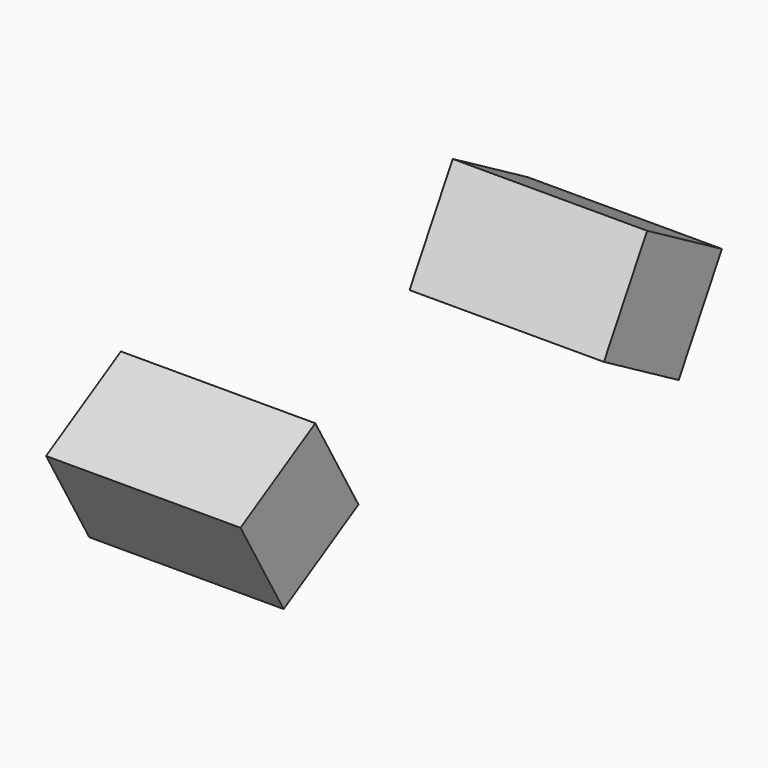
from build123d import *

# Parameters (mm, degrees)
BOX048_W               = 18
BOX048_H               = 10
BOX048_DEPTH           = 10
BOX048_PLACEMENT_ANGLE = 30
BOX049_W               = 18
BOX049_H               = 10
BOX049_DEPTH           = 10
BOX049_PLACEMENT_ANGLE = 30


with BuildPart() as obj1:
    # Box048 → Box048 (new body)
    with BuildSketch(Plane.XY):
        with Locations((9, 5)):
            Rectangle(BOX048_W, BOX048_H)
    extrude(amount=BOX048_DEPTH)


with BuildPart() as obj1_1:
    # Box048 placement: moved
    add(obj1.part.moved(Location((-62, 14.133975, -28.366025))).rotate(Axis((-62, 14.133975, -28.366025), (-1, 0, 0)), BOX048_PLACEMENT_ANGLE))


with BuildPart() as fusion100:
    # Box049 → Box049 (new body)
    with BuildSketch(Plane.XY):
        with Locations((9, 5)):
            Rectangle(BOX049_W, BOX049_H)
    extrude(amount=BOX049_DEPTH)


with BuildPart() as fusion100_1:
    # Box049 placement: moved
    add(fusion100.part.moved(Location((-62, -22.933013, -33.446152))).rotate(Axis((-62, -22.933013, -33.446152), (1, 0, 0)), BOX049_PLACEMENT_ANGLE))

    # Fusion100: union obj1
    add(obj1_1.part)


solid = fusion100_1.part
